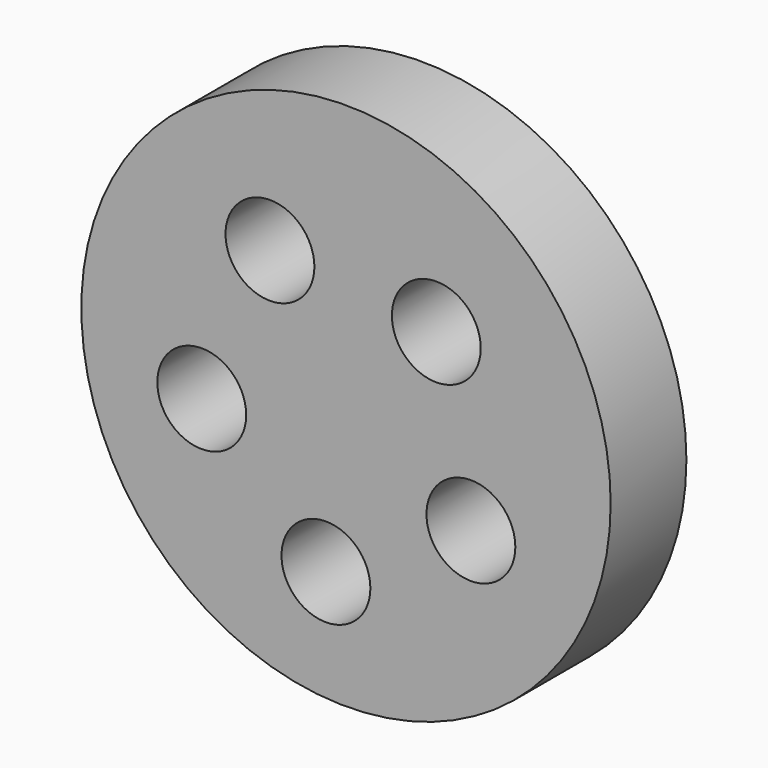
from build123d import *

# Parameters (mm, degrees)
F0_R     = 69.889074
F1_DEPTH = 25
F2_R     = 11.734022
F3_DEPTH = 77


with BuildPart() as f1:
    # F0 (on Front) → F1 (new body)
    with BuildSketch(Plane.XZ):
        with Locations((-15.672464, 14.951888)):
            Circle(F0_R)
    extrude(amount=F1_DEPTH)

    # F2 (on face) → F3 (cut)
    with BuildSketch(Plane.XZ.offset(25)):
        with Locations((-35.751652, 44.561766)):
            Circle(F2_R)
        with Locations((-53.762659, 4.228258)):
            Circle(F2_R)
        with Locations((-20.968921, -25.364967)):
            Circle(F2_R)
        with Locations((17.309731, -3.321078)):
            Circle(F2_R)
        with Locations((8.173501, 39.89602)):
            Circle(F2_R)
    extrude(amount=-F3_DEPTH, mode=Mode.SUBTRACT)


solid = f1.part
